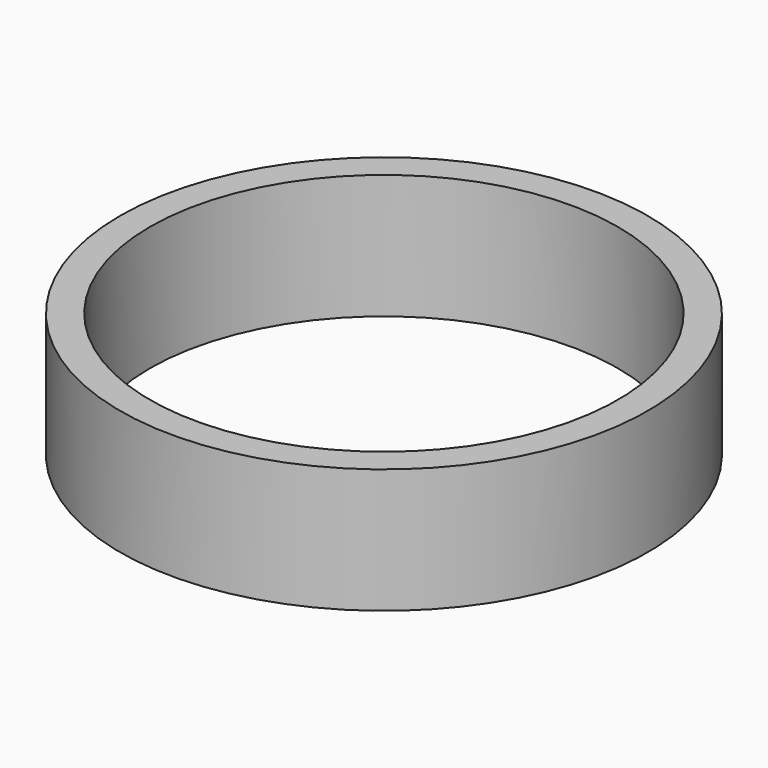
from build123d import *

# Parameters (mm, degrees)
SKETCH_W = 1.2
SKETCH_H = 5


with BuildPart() as part:
    # Sketch → Revolution (revolve)
    with BuildSketch(Plane.XZ):
        with Locations((-10, 2.5)):
            Rectangle(SKETCH_W, SKETCH_H)
    revolve(axis=Axis((0, 0, 0), (0, 0, 1)))


solid = part.part
